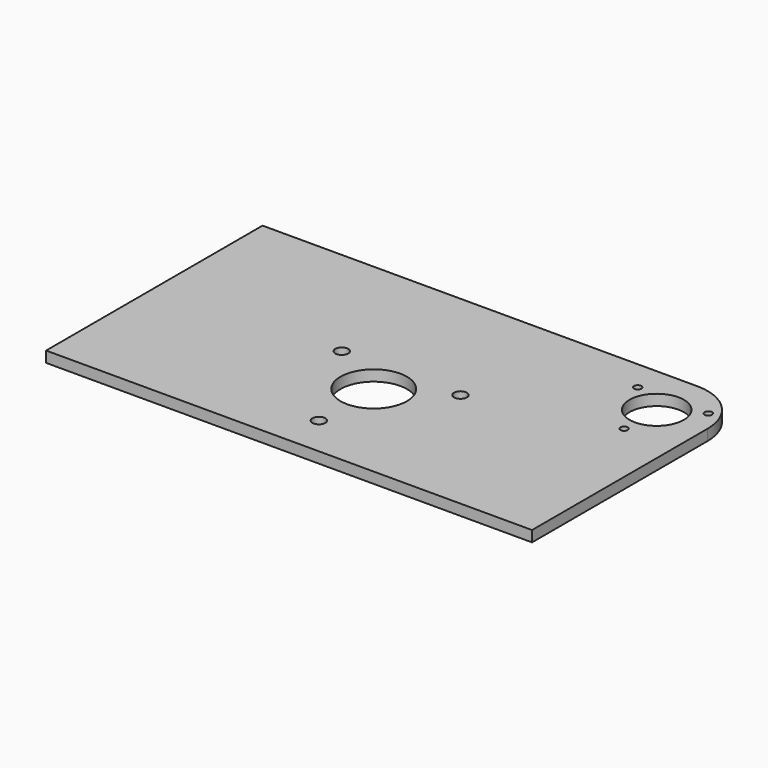
from build123d import *

# Parameters (mm, degrees)
F0_W     = 226.934583
F0_H     = 126.350489
F0_R     = 3
F0_R_2   = 15.497899
F0_R_3   = 1.7272
F0_R_4   = 12.7
F1_DEPTH = 5.08
F2_R     = 23.8125


with BuildPart() as f1:
    # F0 (on Top) → F1 (new body)
    with BuildSketch(Plane.XY):
        with Locations((1.22929, 12.219901)):
            Rectangle(F0_W, F0_H)
        with Locations((0, -32.000012)):
            Circle(F0_R, mode=Mode.SUBTRACT)
        Circle(F0_R_2, mode=Mode.SUBTRACT)
        with Locations((-27.712823, 16.000006)):
            Circle(F0_R, mode=Mode.SUBTRACT)
        with Locations((27.712823, 16.000006)):
            Circle(F0_R, mode=Mode.SUBTRACT)
        with Locations((90.884082, 32.532645)):
            Circle(F0_R_3, mode=Mode.SUBTRACT)
        with Locations((90.884082, 51.582645)):
            Circle(F0_R_4, mode=Mode.SUBTRACT)
        with Locations((74.386298, 61.107645)):
            Circle(F0_R_3, mode=Mode.SUBTRACT)
        with Locations((107.381866, 61.107645)):
            Circle(F0_R_3, mode=Mode.SUBTRACT)
    extrude(amount=F1_DEPTH)

    # F2
    f2_edges = [f1.edges().sort_by_distance(p)[0] for p in [
        (114.696582, 75.395145, 2.54),
    ]]
    fillet(f2_edges, radius=F2_R)


solid = f1.part
